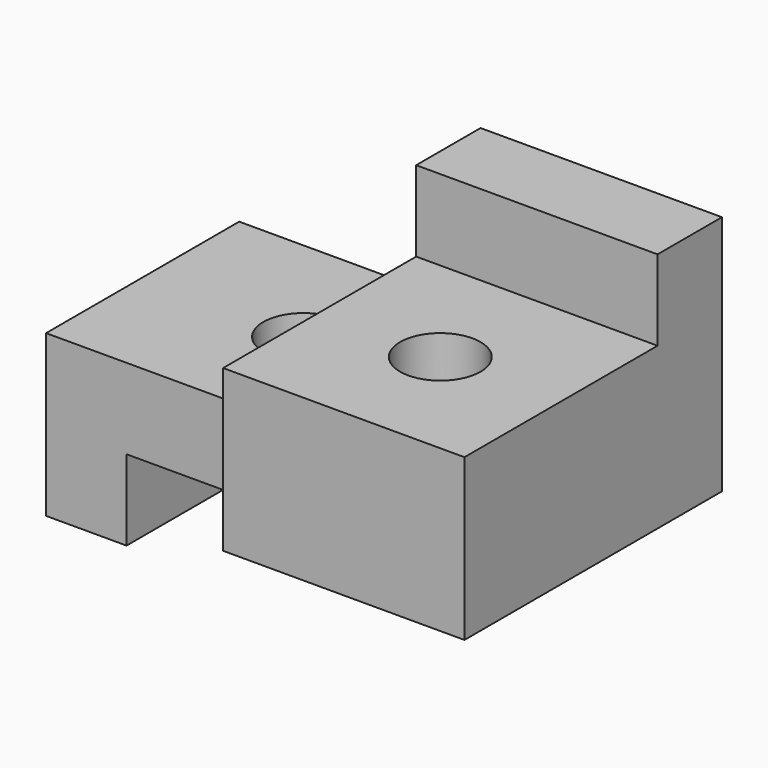
from build123d import *

# Parameters (mm, degrees)
F0_W     = 19.05
F0_H     = 25.4
F0_R     = 3.175
F1_DEPTH = 12.7
F2_W     = 19.05
F2_H     = 6.35
F3_DEPTH = 6.35
F4_W     = 19.05
F4_H     = 6.35
F5_DEPTH = 19.05
F6_R     = 3.175
F7_DEPTH = 6.351
F8_W     = 6.35
F8_H     = 19.05
F9_DEPTH = 6.35


with BuildPart() as f1:
    # F0 (on Top) → F1 (new body)
    with BuildSketch(Plane.XY):
        with Locations((9.525, 12.7)):
            Rectangle(F0_W, F0_H)
        with Locations((9.525, 9.525)):
            Circle(F0_R, mode=Mode.SUBTRACT)
    extrude(amount=F1_DEPTH)

    # F2 (on face) → F3 (join)
    with BuildSketch(Plane.XY.offset(12.7)):
        with Locations((9.525, 22.225)):
            Rectangle(F2_W, F2_H)
    extrude(amount=F3_DEPTH)

    # F4 (on face) → F5 (join)
    with BuildSketch(Plane(origin=(0, 0, 0), x_dir=(0, -1, 0), z_dir=(-1, 0, 0))):
        with Locations((-15.875, 3.175)):
            Rectangle(F4_W, F4_H)
    extrude(amount=F5_DEPTH)

    # F6 (on face) → F7 (cut, through all)
    with BuildSketch(Plane.XY.offset(6.35)):
        with Locations((-6.35, 15.875)):
            Circle(F6_R)
    extrude(amount=-F7_DEPTH, mode=Mode.SUBTRACT)

    # F8 (on face) → F9 (join)
    with BuildSketch(Plane(origin=(0, 0, 0), x_dir=(1, 0, 0), z_dir=(0, 0, -1))):
        with Locations((-15.875, -15.875)):
            Rectangle(F8_W, F8_H)
    extrude(amount=F9_DEPTH)


solid = f1.part
